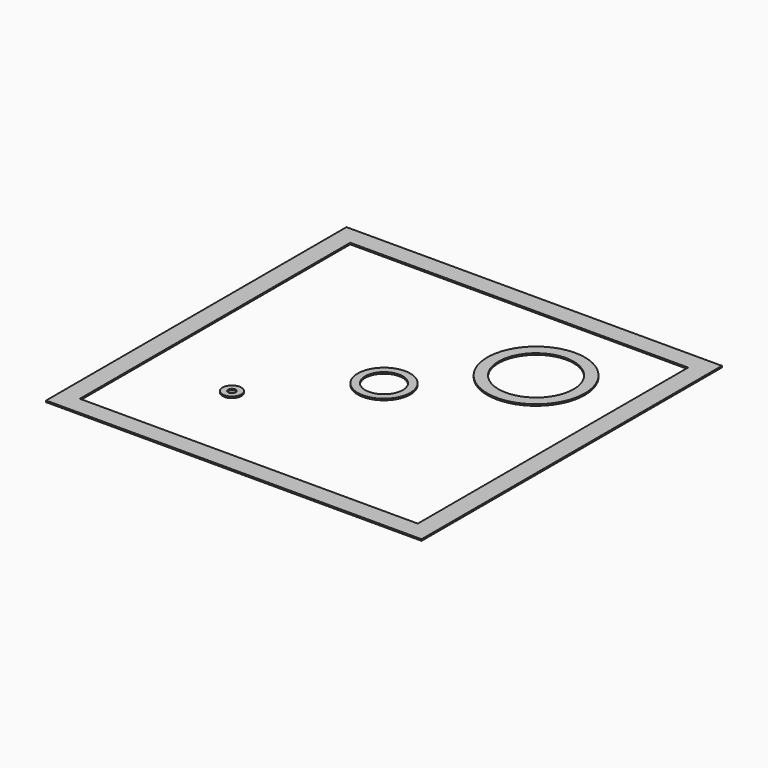
from build123d import *

# Parameters (mm, degrees)
F0_W     = 100
F0_H     = 100
F0_W_2   = 90
F0_H_2   = 90
F0_R     = 2.5
F0_R_2   = 1
F0_R_3   = 7
F0_R_4   = 5
F0_R_5   = 13
F0_R_6   = 10
F1_DEPTH = 0.4


with BuildPart() as f1:
    # F0 (on Top) → F1 (new body)
    with BuildSketch(Plane.XY):
        Rectangle(F0_W, F0_H)
        Rectangle(F0_W_2, F0_H_2, mode=Mode.SUBTRACT)
        with Locations((-22.5, -22.5)):
            Circle(F0_R)
        with Locations((-22.5, -22.5)):
            Circle(F0_R_2, mode=Mode.SUBTRACT)
        Circle(F0_R_3)
        Circle(F0_R_4, mode=Mode.SUBTRACT)
        with Locations((22.5, 22.5)):
            Circle(F0_R_5)
        with Locations((22.5, 22.5)):
            Circle(F0_R_6, mode=Mode.SUBTRACT)
    extrude(amount=F1_DEPTH)


solid = f1.part
